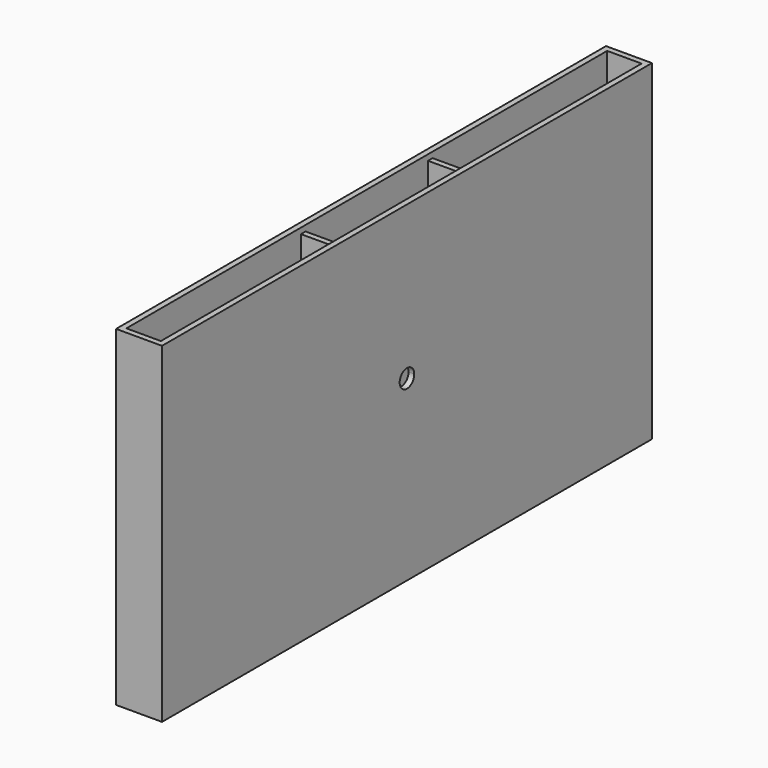
from build123d import *

# Parameters (mm, degrees)
F0_W     = 152.4
F0_H     = 2032
F0_W_2   = 114.3
F0_H_2   = 1993.9
F1_DEPTH = 1098.55
F3_DEPTH = 25.4
F4_W     = 19.05
F4_H     = 1079.5
F5_DEPTH = 114.3


with BuildPart() as f1:
    # F0 (on Top) → F1 (new body)
    with BuildSketch(Plane.XY):
        Rectangle(F0_W, F0_H)
        Rectangle(F0_W_2, F0_H_2, mode=Mode.SUBTRACT)
    extrude(amount=F1_DEPTH)

    # F2 (on face) → F3 (cut)
    with BuildSketch(Plane.YZ.offset(76.2)):
        with BuildLine():
            ThreePointArc((30.226, 590.55), (21.37301, 611.92301), (0, 620.776))
            ThreePointArc((0, 620.776), (-21.37301, 569.17699), (30.226, 590.55))
        make_face()
    extrude(amount=-F3_DEPTH, mode=Mode.SUBTRACT)

    # F4 (on face) → F5 (join)
    with BuildSketch(Plane.YZ.offset(-57.15)):
        with Locations((-263.525, 539.75)):
            Rectangle(F4_W, F4_H)
        with Locations((263.525, 539.75)):
            Rectangle(F4_W, F4_H)
    extrude(amount=F5_DEPTH)


solid = f1.part
